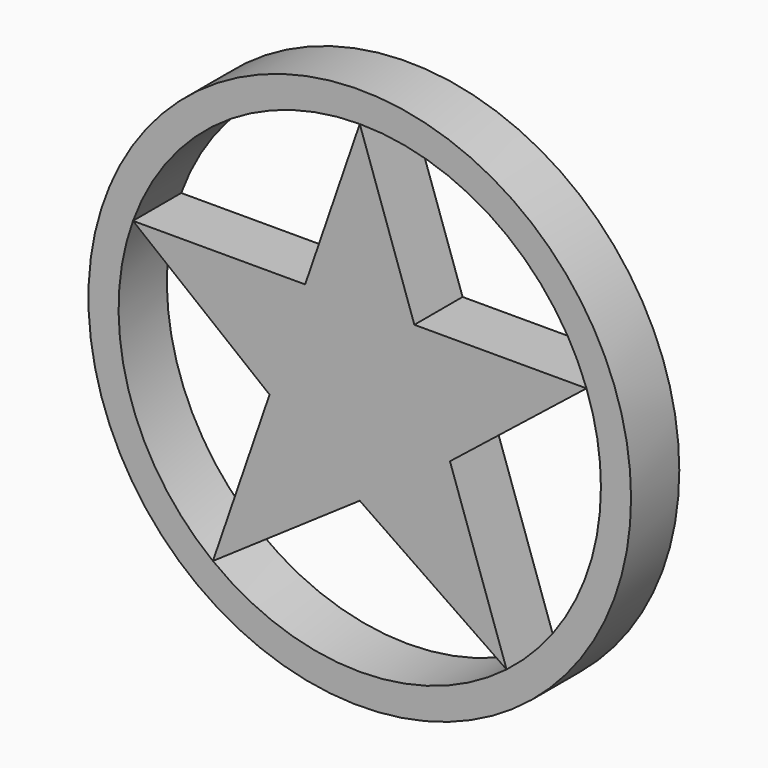
from build123d import *

# Parameters (mm, degrees)
F0_R     = 57.15
F1_DEPTH = 12.7


with BuildPart() as f1:
    # F0 (on Front) → F1 (new body)
    with BuildSketch(Plane.XZ):
        Circle(F0_R)
        with BuildLine():
            ThreePointArc((47.763775, 17.299184), (50.035187, 8.781805), (50.8, 0))
            ThreePointArc((50.8, 0), (45.561699, -22.467122), (30.927103, -40.300798))
            ThreePointArc((30.927103, -40.300798), (0, -50.8), (-30.927103, -40.300798))
            ThreePointArc((-30.927103, -40.300798), (-48.759646, -14.252612), (-47.763775, 17.299184))
            ThreePointArc((-47.763775, 17.299184), (-29.170546, 41.589894), (0, 50.8))
            ThreePointArc((0, 50.8), (29.170546, 41.589894), (47.763775, 17.299184))
        make_face(mode=Mode.SUBTRACT)
        Polygon((19.001698, -5.570812), (47.763775, 17.299184), (11.503339, 17.299184), (0, 50.8), (-11.503339, 17.299184), (-47.763775, 17.299184), (-19.001698, -5.570812), (-30.927103, -40.300798), (0, -19.067856), (30.927103, -40.300798), align=None)
    extrude(amount=F1_DEPTH)


solid = f1.part
